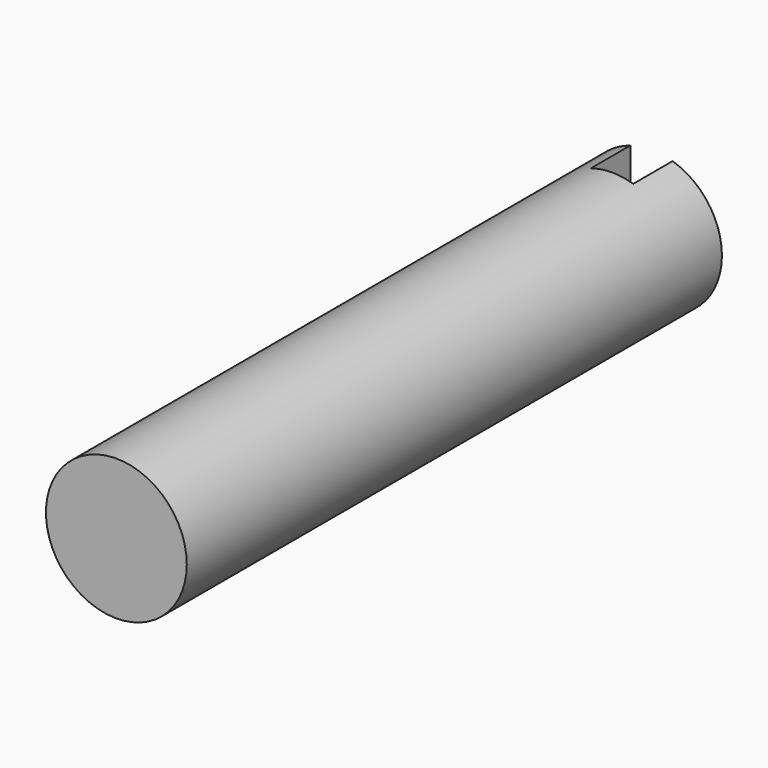
from build123d import *

# Parameters (mm, degrees)
F0_R     = 0.5
F1_DEPTH = 4.75
F2_W     = 0.3
F2_H     = 0.35
F3_DEPTH = 12.5


with BuildPart() as f1:
    # F0 (on Front) → F1 (new body)
    with BuildSketch(Plane.XZ):
        Circle(F0_R)
    extrude(amount=F1_DEPTH)

    # F2 (on Top) → F3 (cut, symmetric)
    with BuildSketch(Plane.XY):
        with Locations((0, -0.175)):
            Rectangle(F2_W, F2_H)
    extrude(amount=F3_DEPTH, both=True, mode=Mode.SUBTRACT)


solid = f1.part
